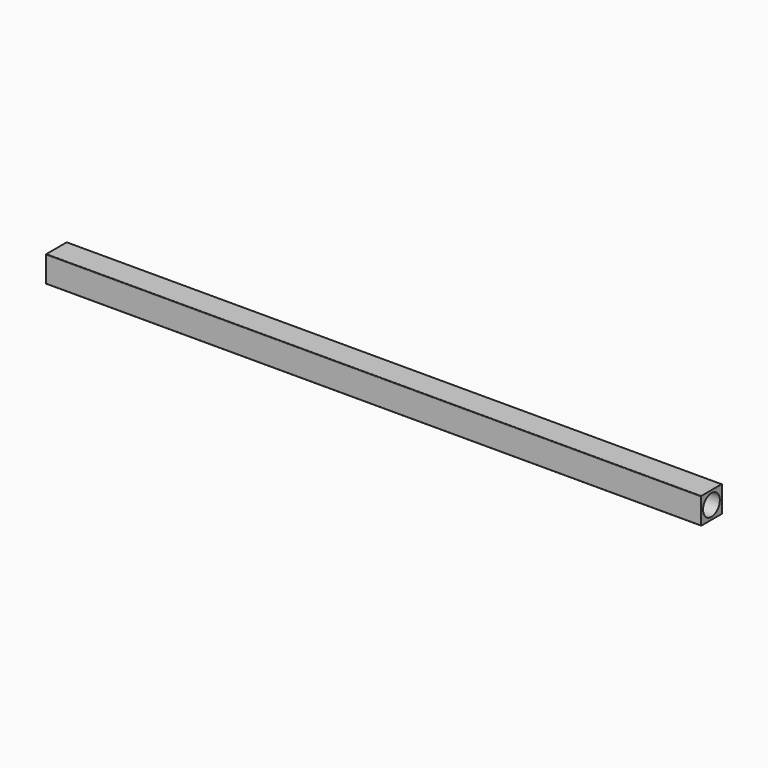
from build123d import *

# Parameters (mm, degrees)
F0_W     = 10
F0_H     = 10
F0_R     = 4
F1_DEPTH = 250
F2_R     = 0.2


with BuildPart() as f1:
    # F0 (on Right) → F1 (new body)
    with BuildSketch(Plane.YZ):
        Rectangle(F0_W, F0_H)
        Circle(F0_R, mode=Mode.SUBTRACT)
    extrude(amount=F1_DEPTH)

    # F2
    f2_edges = [f1.edges().sort_by_distance(p)[0] for p in [
        (125, 5, 5),
        (125, 5, -5),
        (125, -5, 5),
        (125, -5, -5),
    ]]
    fillet(f2_edges, radius=F2_R)


solid = f1.part
